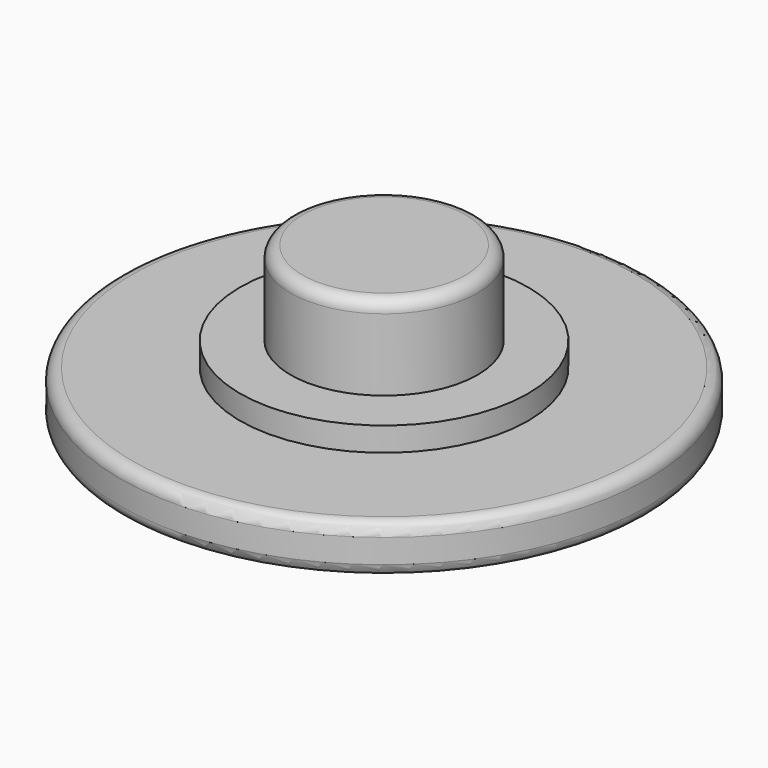
from build123d import *

# Parameters (mm, degrees)
F0_R     = 11
F0_R_2   = 6
F1_DEPTH = 2
F0_R_3   = 3.895
F2_DEPTH = 3
F3_DEPTH = 6.5
F4_R     = 0.5
F5_R     = 0.5


with BuildPart() as f1:
    # F0 (on Top) → F1 (new body)
    with BuildSketch(Plane.XY):
        Circle(F0_R)
        Circle(F0_R_2, mode=Mode.SUBTRACT)
    extrude(amount=F1_DEPTH)

    # F0 (on Top) → F2 (join)
    with BuildSketch(Plane.XY):
        Circle(F0_R_2)
        Circle(F0_R_3, mode=Mode.SUBTRACT)
    extrude(amount=F2_DEPTH)

    # F0 (on Top) → F3 (join)
    with BuildSketch(Plane.XY):
        Circle(F0_R_3)
    extrude(amount=F3_DEPTH)

    # F4
    f4_edges = [f1.edges().sort_by_distance(p)[0] for p in [
        (-3.895, 0, 6.5),
    ]]
    fillet(f4_edges, radius=F4_R)

    # F5
    f5_edges = [f1.edges().sort_by_distance(p)[0] for p in [
        (-11, 0, 0),
        (-11, 0, 2),
    ]]
    fillet(f5_edges, radius=F5_R)


solid = f1.part
